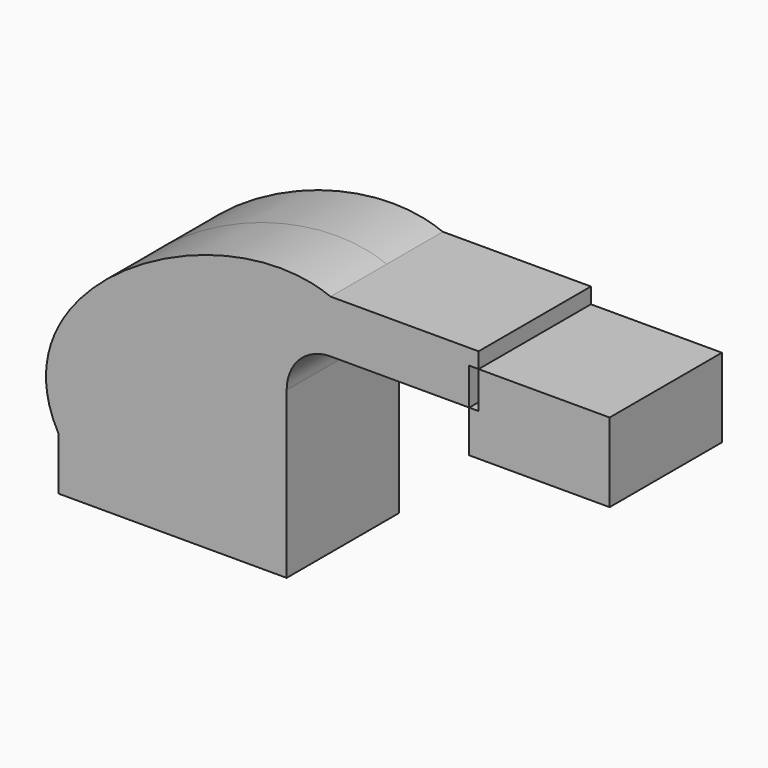
from build123d import *

# Parameters (mm, degrees)
F1_DEPTH = 25.4


with BuildPart() as f1:
    # F0 (on Front) → F1 (new body, symmetric)
    with BuildSketch(Plane.XZ):
        with BuildLine():
            Line((-41.275, 9.525), (22.225, 9.525))
            Line((22.225, 9.525), (22.225, 50.334026))
            ThreePointArc((22.225, 50.334026), (32.454296, 75.02973), (57.15, 85.259026))
            add(Edge.make_bspline(
                [(-41.275, 9.525), (-66.139624, 53.919498), (17.23104, 101.274036), (57.15, 85.259026)],
                knots=[0, 0, 0, 0, 124.189868, 124.189868, 124.189868, 124.189868], degree=3))
        make_face()
        Polygon((110.731369, 66.209026), (107.340956, 66.209026), (107.340956, 51.005763), (158.140956, 51.005763), (158.140956, 79.580763), (110.731369, 79.580763), align=None)
        Polygon((41.275, -9.525), (41.275, 9.525), (22.225, 9.525), (-41.275, 9.525), (-41.275, -9.525), align=None)
        with BuildLine():
            Line((22.225, 9.525), (41.275, 9.525))
            Line((41.275, 9.525), (41.275, 50.334026))
            ThreePointArc((41.275, 50.334026), (45.92468, 61.559346), (57.15, 66.209026))
            Line((57.15, 66.209026), (107.340956, 66.209026))
            Line((107.340956, 66.209026), (107.340956, 79.580763))
            Line((107.340956, 79.580763), (110.731369, 79.580763))
            Line((110.731369, 79.580763), (110.731369, 85.259026))
            Line((110.731369, 85.259026), (57.15, 85.259026))
            ThreePointArc((57.15, 85.259026), (32.454296, 75.02973), (22.225, 50.334026))
            Line((22.225, 50.334026), (22.225, 9.525))
        make_face()
    extrude(amount=F1_DEPTH, both=True)


solid = f1.part
